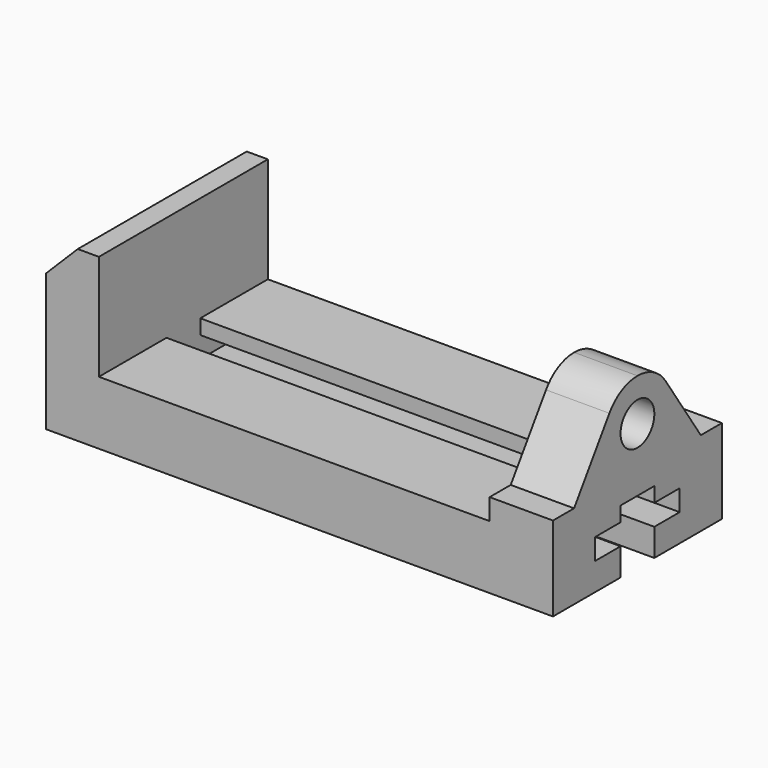
from build123d import *

# Parameters (mm, degrees)
F1_DEPTH = 63.5
F3_DEPTH = 38.1
F4_R     = 12.7
F5_DEPTH = 273.05
F6_SIZE2 = 19.05
F6_SIZE  = 19.05


with BuildPart() as f1:
    # F0 (on Front) → F1 (new body, symmetric)
    with BuildSketch(Plane.XZ):
        Polygon((0, 101.6), (0, 0), (304.8, 0), (304.8, 101.6), (266.7, 101.6), (266.7, 38.1), (31.75, 38.1), (31.75, 101.6), align=None)
    extrude(amount=F1_DEPTH, both=True)

    # F2 (on face) → F3 (cut)
    with BuildSketch(Plane.YZ.offset(304.8)):
        with BuildLine():
            Line((-63.5, 101.6), (-63.5, 50.8))
            Line((-63.5, 50.8), (-47.625, 50.8))
            Line((-47.625, 50.8), (-21.0934256055, 90.3501730104))
            ThreePointArc((-21.0934256055, 90.3501730104), (-11.9529411588, 98.6117647153), (4.02e-08, 101.6))
            Line((4.02e-08, 101.6), (-63.5, 101.6))
        make_face()
        with BuildLine():
            Line((47.625, 50.8), (63.5, 50.8))
            Line((63.5, 50.8), (63.5, 101.6))
            Line((63.5, 101.6), (4.02e-08, 101.6))
            ThreePointArc((4.02e-08, 101.6), (11.9529411942, 98.6117646964), (21.0934256055, 90.3501730104))
            Line((21.0934256055, 90.3501730104), (47.625, 50.8))
        make_face()
    extrude(amount=-F3_DEPTH, mode=Mode.SUBTRACT)

    # F4 (on face) → F5 (cut)
    with BuildSketch(Plane.YZ.offset(304.8)):
        Polygon((0, 0), (12.7, 0), (12.7, 16.51), (31.75, 16.51), (31.75, 29.21), (12.7, 29.21), (12.7, 38.1), (0, 38.1), (-12.7, 38.1), (-12.7, 29.21), (-31.75, 29.21), (-31.75, 16.51), (-12.7, 16.51), (-12.7, 0), align=None)
        with Locations((0, 76.2)):
            Circle(F4_R)
    extrude(amount=-F5_DEPTH, mode=Mode.SUBTRACT)

    # F6
    f6_edges = [f1.edges().sort_by_distance(p)[0] for p in [
        (0, 0, 101.6),
    ]]
    chamfer(f6_edges, length=F6_SIZE, length2=F6_SIZE2)


solid = f1.part
